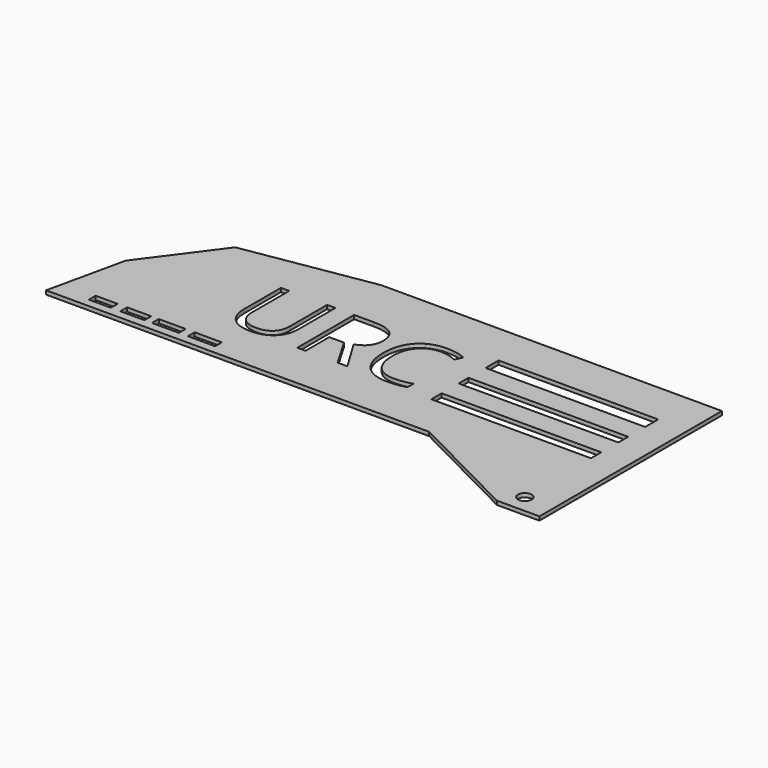
from build123d import *

# Parameters (mm, degrees)
F0_R     = 1.6050327283
F0_W     = 2.2255629301
F0_H     = 2
F0_W_2   = 1.7703343183
F0_W_3   = 2.1244008094
F1_DEPTH = 0.9
F3_W     = 37.4999957172
F3_H     = 3.8157890567
F3_H_2   = 3.0263150231
F3_H_3   = 2.8947356249
F4_DEPTH = 0.9


with BuildPart() as f1:
    # F0 (on Top) → F1 (new body)
    with BuildSketch(Plane.XY):
        Polygon((-56.3586414655, -11.5456737704), (-60.406261386, -29.879005636), (29.593738614, -29.879005636), (56.3437383481, -43.4597830152), (66.3437383481, -43.4597830152), (66.3437383481, 10.120994364), (-13.6562616519, 10.120994364), (-43.9776898843, 5.1209918552), align=None)
        Polygon((-51.9591234624, -27.8780460358), (-51.9591234624, -25.8780460358), (-46.79986462, -25.8780460358), (-44.5743016899, -25.8780460358), (-38.9092303813, -25.8780460358), (-37.138896063, -25.8780460358), (-30.8162737638, -25.8780460358), (-28.6918729544, -25.8780460358), (-22.3186686635, -25.8780460358), (-22.3186686635, -27.8780460358), (-28.6918729544, -27.8780460358), (-30.8162737638, -27.8780460358), (-37.138896063, -27.8780460358), (-38.9092303813, -27.8780460358), (-44.5743016899, -27.8780460358), (-46.79986462, -27.8780460358), align=None, mode=Mode.SUBTRACT)
        with Locations((59.4792403281, -39.1563028097)):
            Circle(F0_R, mode=Mode.SUBTRACT)
        with BuildLine():
            Line((-16.5355233229, -2.2097615232), (-14.5946062265, -2.2097615232))
            Line((-14.5946062265, -2.2097615232), (-14.5946062265, -13.0145655474))
            add(Edge.make_bspline(
                [(-14.5946062265, -13.0145655474), (-14.5946062265, -15.8729406309), (-16.3198658677, -17.5068199945)],
                knots=[0, 0, 0, 1, 1, 1], degree=2))
            add(Edge.make_bspline(
                [(-16.3198658677, -17.5068199945), (-18.045125509, -19.1406993581), (-21.06067467, -19.1406993581)],
                knots=[0, 0, 0, 1, 1, 1], degree=2))
            add(Edge.make_bspline(
                [(-21.06067467, -19.1406993581), (-24.076223831, -19.1406993581), (-25.7265516446, -17.4940267556)],
                knots=[0, 0, 0, 1, 1, 1], degree=2))
            add(Edge.make_bspline(
                [(-25.7265516446, -17.4940267556), (-27.3768794581, -15.8473541532), (-27.3768794581, -12.9707030141)],
                knots=[0, 0, 0, 1, 1, 1], degree=2))
            Line((-27.3768794581, -12.9707030141), (-27.3768794581, -2.2097615232))
            Line((-27.3768794581, -2.2097615232), (-25.4323071507, -2.2097615232))
            Line((-25.4323071507, -2.2097615232), (-25.4323071507, -13.105945825))
            add(Edge.make_bspline(
                [(-25.4323071507, -13.105945825), (-25.4323071507, -15.1967265766), (-24.2900536806, -16.3170487801)],
                knots=[0, 0, 0, 1, 1, 1], degree=2))
            add(Edge.make_bspline(
                [(-24.2900536806, -16.3170487801), (-23.1478002105, -17.4373709835), (-20.9327422813, -17.4373709835)],
                knots=[0, 0, 0, 1, 1, 1], degree=2))
            add(Edge.make_bspline(
                [(-20.9327422813, -17.4373709835), (-18.8200302631, -17.4373709835), (-17.677776793, -16.3115659634)],
                knots=[0, 0, 0, 1, 1, 1], degree=2))
            add(Edge.make_bspline(
                [(-17.677776793, -16.3115659634), (-16.5355233229, -15.1857609433), (-16.5355233229, -13.0840145583)],
                knots=[0, 0, 0, 1, 1, 1], degree=2))
            Line((-16.5355233229, -13.0840145583), (-16.5355233229, -2.2097615232))
        make_face(mode=Mode.SUBTRACT)
        with BuildLine():
            Line((-4.7474675117, -11.9655199604), (-8.2345389051, -11.9655199604))
            Line((-8.2345389051, -11.9655199604), (-8.2345389051, -18.9104210585))
            Line((-8.2345389051, -18.9104210585), (-10.1754560015, -18.9104210585))
            Line((-10.1754560015, -18.9104210585), (-10.1754560015, -2.2097615232))
            Line((-10.1754560015, -2.2097615232), (-5.5954764878, -2.2097615232))
            add(Edge.make_bspline(
                [(-5.5954764878, -2.2097615232), (-2.5214439492, -2.2097615232), (-1.0538766908, -3.3867394987)],
                knots=[0, 0, 0, 1, 1, 1], degree=2))
            add(Edge.make_bspline(
                [(-1.0538766908, -3.3867394987), (0.4136905676, -4.5637174743), (0.4136905676, -6.9286390588)],
                knots=[0, 0, 0, 1, 1, 1], degree=2))
            add(Edge.make_bspline(
                [(0.4136905676, -6.9286390588), (0.4136905676, -10.2402603192), (-2.9454484373, -11.4062726615)],
                knots=[0, 0, 0, 1, 1, 1], degree=2))
            Line((-2.9454484373, -11.4062726615), (1.5906685431, -18.9104210585))
            Line((1.5906685431, -18.9104210585), (-0.7048040303, -18.9104210585))
            Line((-0.7048040303, -18.9104210585), (-4.7474675117, -11.9655199604))
        make_face(mode=Mode.SUBTRACT)
        with BuildLine():
            add(Edge.make_bspline(
                [(15.2282611731, -4.5966143742), (13.33120661, -3.7083980759), (11.4341520469, -3.7083980759)],
                knots=[0, 0, 0, 1, 1, 1], degree=2))
            add(Edge.make_bspline(
                [(11.4341520469, -3.7083980759), (8.6817780854, -3.7083980759), (7.0881060439, -5.5414864447)],
                knots=[0, 0, 0, 1, 1, 1], degree=2))
            add(Edge.make_bspline(
                [(7.0881060439, -5.5414864447), (5.4944340025, -7.3745748135), (5.4944340025, -10.5619188964)],
                knots=[0, 0, 0, 1, 1, 1], degree=2))
            add(Edge.make_bspline(
                [(5.4944340025, -10.5619188964), (5.4944340025, -13.8369880458), (7.0314502718, -15.6262138814)],
                knots=[0, 0, 0, 1, 1, 1], degree=2))
            add(Edge.make_bspline(
                [(7.0314502718, -15.6262138814), (8.5684665412, -17.4154397169), (11.4122207803, -17.4154397169)],
                knots=[0, 0, 0, 1, 1, 1], degree=2))
            add(Edge.make_bspline(
                [(11.4122207803, -17.4154397169), (13.1594116881, -17.4154397169), (15.400056095, -16.786743407)],
                knots=[0, 0, 0, 1, 1, 1], degree=2))
            Line((15.400056095, -16.786743407), (15.400056095, -18.4864165704))
            add(Edge.make_bspline(
                [(15.400056095, -18.4864165704), (13.6638308205, -19.1406993581), (11.1161486808, -19.1406993581)],
                knots=[0, 0, 0, 1, 1, 1], degree=2))
            add(Edge.make_bspline(
                [(11.1161486808, -19.1406993581), (7.4280406766, -19.1406993581), (5.4231573859, -16.9000549512)],
                knots=[0, 0, 0, 1, 1, 1], degree=2))
            add(Edge.make_bspline(
                [(5.4231573859, -16.9000549512), (3.4182740953, -14.6594105443), (3.4182740953, -10.5363324187)],
                knots=[0, 0, 0, 1, 1, 1], degree=2))
            add(Edge.make_bspline(
                [(3.4182740953, -10.5363324187), (3.4182740953, -7.9557533791), (4.3832498268, -6.0148362827)],
                knots=[0, 0, 0, 1, 1, 1], degree=2))
            add(Edge.make_bspline(
                [(4.3832498268, -6.0148362827), (5.3482255583, -4.0739191863), (7.1703482938, -3.0230459939)],
                knots=[0, 0, 0, 1, 1, 1], degree=2))
            add(Edge.make_bspline(
                [(7.1703482938, -3.0230459939), (8.9924710293, -1.9721728014), (11.4597385246, -1.9721728014)],
                knots=[0, 0, 0, 1, 1, 1], degree=2))
            add(Edge.make_bspline(
                [(11.4597385246, -1.9721728014), (14.0841800975, -1.9721728014), (16.0506836716, -2.9298381107)],
                knots=[0, 0, 0, 1, 1, 1], degree=2))
            Line((16.0506836716, -2.9298381107), (15.2282611731, -4.5966143742))
        make_face(mode=Mode.SUBTRACT)
        with Locations((-45.6870831549, -26.8780460358)):
            Rectangle(F0_W, F0_H)
        with Locations((-38.0240632221, -26.8780460358)):
            Rectangle(F0_W_2, F0_H)
        with Locations((-29.7540733591, -26.8780460358)):
            Rectangle(F0_W_3, F0_H)
    extrude(amount=F1_DEPTH)

    # F3 (on face) → F4 (cut, through all)
    with BuildSketch(Plane.XY.offset(0.9)):
        with Locations((40.5594706535, -1.704487608)):
            Rectangle(F3_W, F3_H)
        with Locations((40.5594706535, -18.0202752728)):
            Rectangle(F3_W, F3_H_2)
        with Locations((40.5594706535, -10.0597499488)):
            Rectangle(F3_W, F3_H_3)
    extrude(amount=-F4_DEPTH, mode=Mode.SUBTRACT)


solid = f1.part
